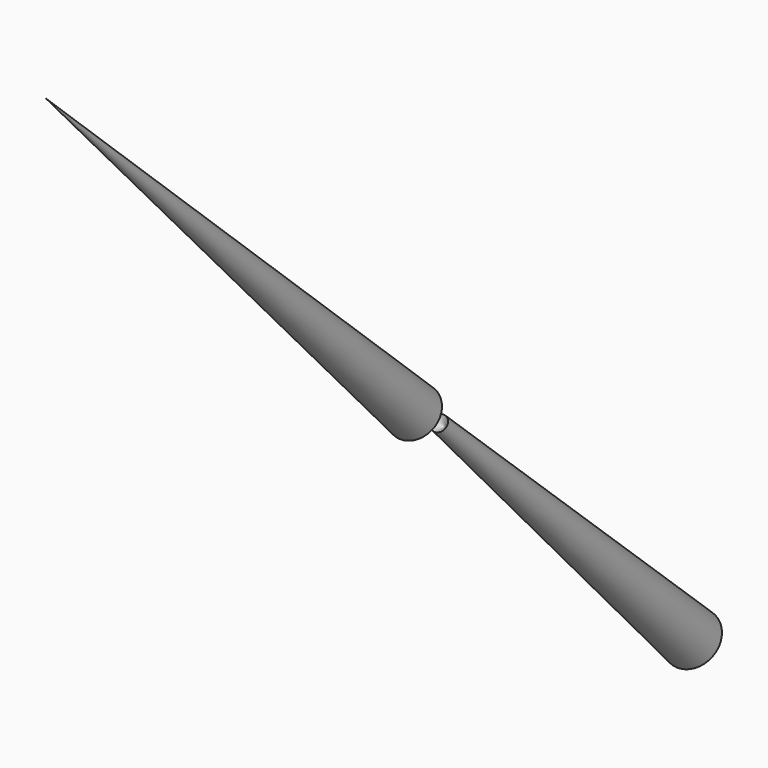
from build123d import *


with BuildPart() as f1:
    # F0 (on Right) → F1 (revolve)
    with BuildSketch(Plane.YZ):
        Polygon((-5.380790215, 0), (0, 0), (-75.3310546279, 75.7989510894), align=None)
    revolve(axis=Axis((0, -37.6655273139, 37.8994755447), (0, -0.7049142098, 0.7092925749)))


with BuildPart() as f3:
    # F2 (on Right) → F3 (revolve)
    with BuildSketch(Plane.YZ):
        Polygon((55.1126487553, -48.272985965), (3.12106614, 0), (3.12106614, -1.7395174364), (43.8992977142, -42.764287442), align=None)
    revolve(axis=Axis((0, 23.5101819271, -22.2519024392), (0, 0.7049724964, -0.7092346433)))


solid = Compound([f1.part, f3.part])
